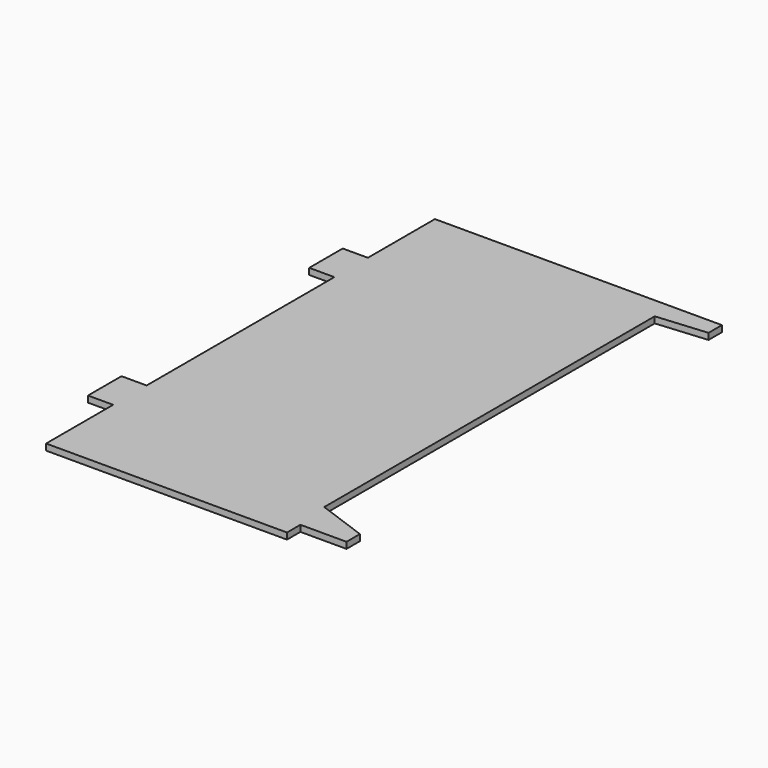
from build123d import *

# Parameters (mm, degrees)
F1_DEPTH = 15


with BuildPart() as f1:
    # F0 (on Top) → F1 (new body)
    with BuildSketch(Plane.XY):
        Polygon((0, 200), (0, 0), (575, 0), (575, 40), (685, 40), (685, 80), (565, 123.676428), (565, 1109.50136), (685, 1120), (685, 1160), (0, 1160), (0, 960), (-60, 960), (-60, 860), (0, 860), (0, 300), (-60, 300), (-60, 200), align=None)
    extrude(amount=F1_DEPTH)


solid = f1.part
